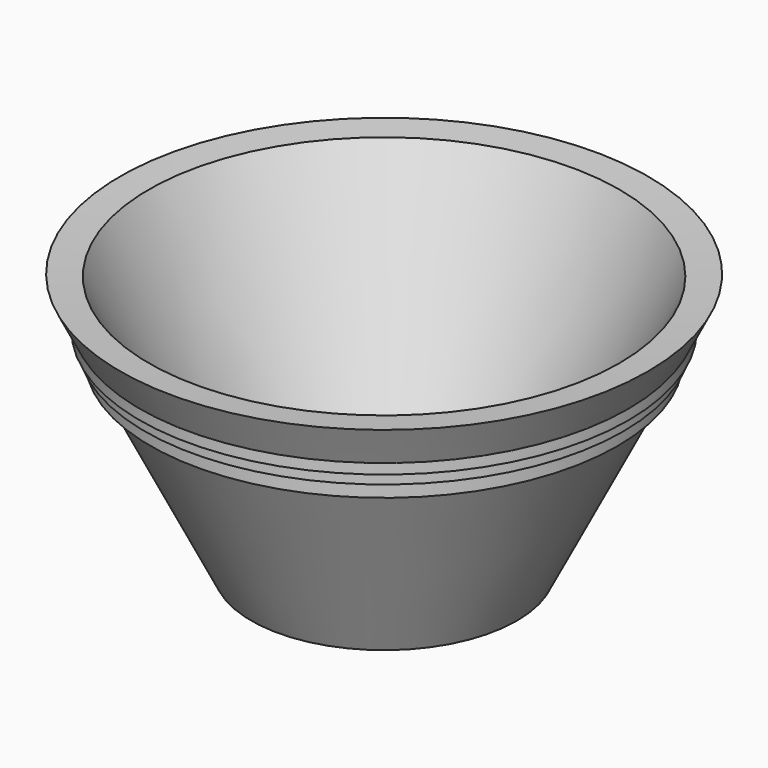
from build123d import *


with BuildPart() as f1:
    # F0 (on Front) → F1 (revolve)
    with BuildSketch(Plane.XZ):
        Polygon((25.4, 0), (0, 0), (0, -5.334), (28.696593, -5.334), (48.830684, 34.934182), (50.417995, 38.108803), (51.645849, 40.564511), (52.739333, 42.75148), (57.001568, 51.275948), (50.8, 50.8), align=None)
        Polygon((50.417995, 38.108803), (48.830684, 34.934182), (50.417995, 34.934182), align=None)
        Polygon((52.739333, 40.564511), (52.739333, 42.75148), (51.645849, 40.564511), align=None)
        Polygon((51.645849, 40.564511), (50.417995, 38.108803), (51.645849, 38.108803), align=None)
    revolve(axis=Axis((0, 0, 25.4), (0, 0, 1)))


solid = f1.part
